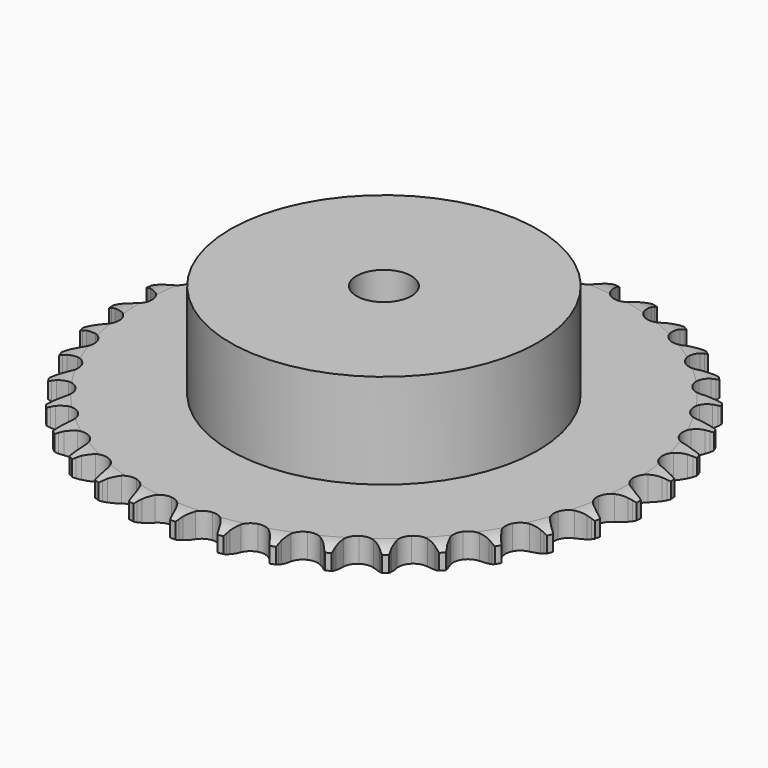
from build123d import *

# Parameters (mm, degrees)
PAD_DEPTH         = 7.2
SKETCH001_R       = 45
PAD001_DEPTH      = 35
SKETCH002_R       = 8
POCKET_DEPTH      = 0.001
POCKET_DEPTH_BACK = 35.001


with BuildPart() as part:
    # Sprocket → Pad (new body)
    with BuildSketch(Plane.XY):
        with BuildLine():
            ThreePointArc((-6.673059, 78.402771), (-5.93416, 77.380789), (-5.393637, 76.241379))
            Line((-5.393637, 76.241379), (-4.978563, 75.109289))
            ThreePointArc((-4.978563, 75.109289), (-4.321728, 73.651627), (-3.462685, 72.3032))
            ThreePointArc((-3.462685, 72.3032), (-1.937803, 71.022139), (0, 70.562469))
            ThreePointArc((0, 70.562469), (1.937803, 71.022139), (3.462685, 72.3032))
            ThreePointArc((3.462685, 72.3032), (4.321728, 73.651627), (4.978563, 75.109289))
            Line((4.978563, 75.109289), (5.393637, 76.241379))
            ThreePointArc((5.393637, 76.241379), (5.93416, 77.380789), (6.673059, 78.402771))
            ThreePointArc((6.673059, 78.402771), (7.228614, 77.270614), (7.568801, 76.056245))
            Line((7.568801, 76.056245), (7.78658, 74.870292))
            ThreePointArc((7.78658, 74.870292), (8.187622, 73.322591), (8.806423, 71.848381))
            ThreePointArc((8.806423, 71.848381), (10.09287, 70.328041), (11.925115, 69.547492))
            ThreePointArc((11.925115, 69.547492), (13.91273, 69.67306), (15.632177, 70.677987))
            Line((15.632177, 70.677987), (17.600483, 73.187529))
            ThreePointArc((17.600483, 73.187529), (17.886516, 73.718501), (18.20091, 74.233187))
            ThreePointArc((18.20091, 74.233187), (18.926219, 75.264859), (19.827206, 76.147266))
            ThreePointArc((19.827206, 76.147266), (20.183434, 74.937505), (20.313499, 73.683112))
            Line((20.313499, 73.683112), (20.327718, 72.477412))
            ThreePointArc((20.327718, 72.477412), (20.461428, 70.884198), (20.822186, 69.326614))
            ThreePointArc((20.822186, 69.326614), (21.83319, 67.610733), (23.507167, 66.531761))
            ThreePointArc((23.507167, 66.531761), (25.487412, 66.319614), (27.35196, 67.019498))
            Line((27.35196, 67.019498), (29.716068, 69.160297))
            ThreePointArc((29.716068, 69.160297), (30.087722, 69.635291), (30.484576, 70.089442))
            ThreePointArc((30.484576, 70.089442), (31.373806, 70.983696), (32.41096, 71.701143))
            ThreePointArc((32.41096, 71.701143), (32.557614, 70.448581), (32.473814, 69.190249))
            Line((32.473814, 69.190249), (32.284064, 67.99949))
            ThreePointArc((32.284064, 67.99949), (32.146597, 66.406595), (32.238932, 64.810448))
            ThreePointArc((32.238932, 64.810448), (32.945409, 62.948387), (34.412959, 61.602032))
            ThreePointArc((34.412959, 61.602032), (36.328868, 61.058273), (38.284878, 61.43298))
            Line((38.284878, 61.43298), (40.976777, 63.143449))
            ThreePointArc((40.976777, 63.143449), (41.423359, 63.548801), (41.891256, 63.929351))
            ThreePointArc((41.891256, 63.929351), (42.918825, 64.660461), (44.06231, 65.192308))
            ThreePointArc((44.06231, 65.192308), (43.99517, 63.932978), (43.699917, 62.706909))
            Line((43.699917, 62.706909), (43.311657, 61.565345))
            ThreePointArc((43.311657, 61.565345), (42.906966, 60.018595), (42.728223, 58.429802))
            ThreePointArc((42.728223, 58.429802), (43.109848, 56.475131), (44.328754, 54.900124))
            ThreePointArc((44.328754, 54.900124), (46.125209, 54.040397), (48.116408, 54.079147))
            Line((48.116408, 54.079147), (51.058658, 55.310079))
            ThreePointArc((51.058658, 55.310079), (51.567321, 55.634128), (52.092801, 55.930128))
            ThreePointArc((52.092801, 55.930128), (53.229148, 56.477062), (54.446067, 56.80801))
            ThreePointArc((54.446067, 56.80801), (54.167066, 55.578141), (53.668852, 54.419606))
            Line((53.668852, 54.419606), (53.093252, 53.360078))
            ThreePointArc((53.093252, 53.360078), (52.43298, 51.90397), (51.988301, 50.368238))
            ThreePointArc((51.988301, 50.368238), (52.034095, 48.377188), (52.969291, 46.61884))
            ThreePointArc((52.969291, 46.61884), (54.594611, 45.467877), (56.563718, 45.169555))
            Line((56.563718, 45.169555), (59.671674, 45.885539))
            ThreePointArc((59.671674, 45.885539), (60.227785, 46.118962), (60.795731, 46.321898))
            ThreePointArc((60.795731, 46.321898), (62.008165, 46.668922), (63.263511, 46.789448))
            ThreePointArc((63.263511, 46.789448), (62.780673, 45.624421), (62.093833, 44.566749))
            Line((62.093833, 44.566749), (61.347451, 43.619739))
            ThreePointArc((61.347451, 43.619739), (60.450593, 42.296162), (59.75277, 40.857671))
            ThreePointArc((59.75277, 40.857671), (59.461417, 38.887521), (60.085999, 36.996417))
            ThreePointArc((60.085999, 36.996417), (61.493426, 35.587329), (63.383792, 34.960517))
            Line((63.383792, 34.960517), (66.568045, 35.140956))
            ThreePointArc((66.568045, 35.140956), (67.155606, 35.277038), (67.749679, 35.381071))
            ThreePointArc((67.749679, 35.381071), (69.00332, 35.518201), (70.260978, 35.42484))
            ThreePointArc((70.260978, 35.42484), (69.588195, 34.35817), (68.732487, 33.431788))
            Line((68.732487, 33.431788), (67.836796, 32.624539))
            ThreePointArc((67.836796, 32.624539), (66.729152, 31.47157), (65.798261, 30.171703))
            ThreePointArc((65.798261, 30.171703), (65.178141, 28.279131), (65.474141, 26.309674))
            ThreePointArc((65.474141, 26.309674), (66.623186, 24.682998), (68.38043, 23.745729))
            Line((68.38043, 23.745729), (71.549375, 23.385431))
            ThreePointArc((71.549375, 23.385431), (72.151482, 23.420257), (72.754591, 23.422396))
            ThreePointArc((72.754591, 23.422396), (74.013375, 23.345686), (75.237164, 23.041123))
            ThreePointArc((75.237164, 23.041123), (74.393791, 22.103497), (73.393832, 21.335056))
            Line((73.393832, 21.335056), (72.374599, 20.690791))
            ThreePointArc((72.374599, 20.690791), (71.088036, 19.741599), (69.950856, 18.617751))
            ThreePointArc((69.950856, 18.617751), (69.019809, 16.857202), (68.978712, 14.86605))
            ThreePointArc((68.978712, 14.86605), (69.836319, 13.068583), (71.409888, 11.84782))
            Line((71.409888, 11.84782), (74.472359, 10.95715))
            ThreePointArc((74.472359, 10.95715), (75.071691, 10.889719), (75.666487, 10.7899))
            ThreePointArc((75.666487, 10.7899), (76.8942, 10.501559), (78.048915, 9.994555))
            ThreePointArc((78.048915, 9.994555), (77.059213, 9.212947), (75.943771, 8.624553))
            Line((75.943771, 8.624553), (74.830317, 8.161806))
            ThreePointArc((74.830317, 8.161806), (73.401845, 7.443697), (72.091092, 6.528199))
            ThreePointArc((72.091092, 6.528199), (70.875903, 4.950322), (70.49889, 2.994756))
            ThreePointArc((70.49889, 2.994756), (71.040389, 1.078208), (72.385013, -0.39093))
            Line((72.385013, -0.39093), (75.252909, -1.786349))
            ThreePointArc((75.252909, -1.786349), (75.832225, -1.954097), (76.401595, -2.153001))
            ThreePointArc((76.401595, -2.153001), (77.562919, -2.644679), (78.61534, -3.339539))
            ThreePointArc((78.61534, -3.339539), (77.507782, -3.942643), (76.308945, -4.334063))
            Line((76.308945, -4.334063), (75.133303, -4.601979))
            ThreePointArc((75.133303, -4.601979), (73.604017, -5.068346), (72.157398, -5.749156))
            ThreePointArc((72.157398, -5.749156), (70.693027, -7.098969), (69.990944, -8.962691))
            ThreePointArc((69.990944, -8.962691), (70.200755, -10.943185), (71.277753, -12.618433))
            Line((71.277753, -12.618433), (73.86857, -14.478457))
            ThreePointArc((73.86857, -14.478457), (74.411203, -14.741698), (74.938769, -15.033964))
            ThreePointArc((74.938769, -15.033964), (76.000294, -15.714835), (76.920145, -16.577559))
            ThreePointArc((76.920145, -16.577559), (75.726593, -16.984811), (74.47885, -17.167996))
            Line((74.47885, -17.167996), (73.27484, -17.233374))
            ThreePointArc((73.27484, -17.233374), (71.688736, -17.434581), (70.147867, -17.861119))
            ThreePointArc((70.147867, -17.861119), (68.47644, -18.944037), (67.469486, -20.662298))
            ThreePointArc((67.469486, -20.662298), (67.341574, -22.649763), (68.119961, -24.482927))
            Line((68.119961, -24.482927), (70.359167, -26.754047))
            ThreePointArc((70.359167, -26.754047), (70.849507, -27.105206), (71.320091, -27.482428))
            ThreePointArc((71.320091, -27.482428), (72.251279, -28.332903), (73.012098, -29.338674))
            ThreePointArc((73.012098, -29.338674), (71.766888, -29.538356), (70.506134, -29.508037))
            Line((70.506134, -29.508037), (69.308394, -29.368995))
            ThreePointArc((69.308394, -29.368995), (67.7111, -29.299256), (66.12031, -29.459251))
            ThreePointArc((66.12031, -29.459251), (64.289911, -30.244118), (63.007053, -31.767488))
            ThreePointArc((63.007053, -31.767488), (62.545098, -33.704748), (63.002483, -35.643092))
            Line((63.002483, -35.643092), (64.825659, -38.259971))
            ThreePointArc((64.825659, -38.259971), (65.249599, -38.688947), (65.649663, -39.140272))
            ThreePointArc((65.649663, -39.140272), (66.423726, -40.135886), (67.003625, -41.255768))
            ThreePointArc((67.003625, -41.255768), (65.742581, -41.242137), (64.505085, -40.999185))
            Line((64.505085, -40.999185), (63.348072, -40.659725))
            ThreePointArc((63.348072, -40.659725), (61.78554, -40.321044), (60.190592, -40.209893))
            ThreePointArc((60.190592, -40.209893), (58.253878, -40.674132), (56.732023, -41.958785))
            ThreePointArc((56.732023, -41.958785), (55.949314, -43.790109), (56.072538, -45.77787))
            Line((56.072538, -45.77787), (57.427234, -48.665226))
            ThreePointArc((57.427234, -48.665226), (57.772579, -49.159678), (58.090615, -49.672122))
            ThreePointArc((58.090615, -49.672122), (58.685284, -50.784232), (59.067581, -51.986009))
            ThreePointArc((59.067581, -51.986009), (57.826978, -51.759456), (56.648343, -51.310861))
            Line((56.648343, -51.310861), (55.565341, -50.780747))
            ThreePointArc((55.565341, -50.780747), (54.082521, -50.18287), (52.529301, -49.80377))
            ThreePointArc((52.529301, -49.80377), (50.541988, -49.934025), (48.824915, -50.943005))
            ThreePointArc((48.824915, -50.943005), (47.74397, -52.615708), (47.529488, -54.595702))
            Line((47.529488, -54.595702), (48.376732, -57.67047))
            ThreePointArc((48.376732, -57.67047), (48.633547, -58.216174), (48.860405, -58.774995))
            ThreePointArc((48.860405, -58.774995), (49.258572, -59.971608), (49.432269, -61.220707))
            ThreePointArc((49.432269, -61.220707), (48.2478, -60.78775), (47.16193, -60.146418))
            Line((47.16193, -60.146418), (46.184096, -59.440901))
            ThreePointArc((46.184096, -59.440901), (44.823647, -58.601025), (43.356836, -57.964882))
            ThreePointArc((43.356836, -57.964882), (41.376096, -57.757407), (39.513204, -58.461687))
            ThreePointArc((39.513204, -58.461687), (38.165119, -59.927649), (37.619101, -61.842915))
            Line((37.619101, -61.842915), (37.93452, -65.016641))
            ThreePointArc((37.93452, -65.016641), (38.095417, -65.597896), (38.22457, -66.187019))
            ThreePointArc((38.22457, -66.187019), (38.414782, -67.43371), (38.374881, -68.694197))
            ThreePointArc((38.374881, -68.694197), (37.280619, -68.067291), (36.318755, -67.251671))
            Line((36.318755, -67.251671), (35.474219, -66.391048))
            ThreePointArc((35.474219, -66.391048), (34.275279, -65.333336), (32.937075, -64.458451))
            ThreePointArc((32.937075, -64.458451), (31.01989, -63.919213), (29.064769, -64.298532))
            ThreePointArc((29.064769, -64.298532), (27.488326, -65.51558), (26.626481, -67.31102))
            Line((26.626481, -67.31102), (26.401001, -70.492401))
            ThreePointArc((26.401001, -70.492401), (26.461351, -71.092487), (26.489084, -71.694962))
            ThreePointArc((26.489084, -71.694962), (26.465868, -72.955867), (26.213518, -74.19148))
            ThreePointArc((26.213518, -74.19148), (25.240943, -73.388661), (24.430755, -72.422216))
            Line((24.430755, -72.422216), (23.743813, -71.431245))
            ThreePointArc((23.743813, -71.431245), (22.740873, -70.186126), (21.569774, -69.097668))
            ThreePointArc((21.569774, -69.097668), (19.771297, -68.24218), (17.780194, -68.285626))
            ThreePointArc((17.780194, -68.285626), (16.020745, -69.218748), (14.867866, -70.842709))
            Line((14.867866, -70.842709), (14.107973, -73.940222))
            ThreePointArc((14.107973, -73.940222), (14.06604, -74.541876), (13.991555, -75.140373))
            ThreePointArc((13.991555, -75.140373), (13.755579, -76.379217), (13.298039, -77.554409))
            ThreePointArc((13.298039, -77.554409), (12.475131, -76.598772), (11.839927, -75.509306))
            Line((11.839927, -75.509306), (11.330341, -74.416495))
            ThreePointArc((11.330341, -74.416495), (10.552253, -73.019788), (9.58195, -71.74907))
            ThreePointArc((9.58195, -71.74907), (7.953921, -70.601944), (5.984115, -70.308267))
            ThreePointArc((5.984115, -70.308267), (4.092276, -70.930619), (2.681529, -72.336383))
            Line((2.681529, -72.336383), (1.409085, -75.260919))
            ThreePointArc((1.409085, -75.260919), (1.266074, -75.846831), (1.091514, -76.424131))
            ThreePointArc((1.091514, -76.424131), (0.649567, -77.605276), (0, -78.686239))
            ThreePointArc((0, -78.686239), (-0.649567, -77.605276), (-1.091514, -76.424131))
            Line((-1.091514, -76.424131), (-1.409085, -75.260919))
            ThreePointArc((-1.409085, -75.260919), (-1.939936, -73.752804), (-2.681529, -72.336383))
            ThreePointArc((-2.681529, -72.336383), (-4.092276, -70.930619), (-5.984115, -70.308267))
            ThreePointArc((-5.984115, -70.308267), (-7.953921, -70.601944), (-9.58195, -71.74907))
            Line((-9.58195, -71.74907), (-11.330341, -74.416495))
            ThreePointArc((-11.330341, -74.416495), (-11.570314, -74.969811), (-11.839927, -75.509306))
            ThreePointArc((-11.839927, -75.509306), (-12.475131, -76.598772), (-13.298039, -77.554409))
            ThreePointArc((-13.298039, -77.554409), (-13.755579, -76.379217), (-13.991555, -75.140373))
            Line((-13.991555, -75.140373), (-14.107973, -73.940222))
            ThreePointArc((-14.107973, -73.940222), (-14.376316, -72.364087), (-14.867866, -70.842709))
            ThreePointArc((-14.867866, -70.842709), (-16.020745, -69.218748), (-17.780194, -68.285626))
            ThreePointArc((-17.780194, -68.285626), (-19.771297, -68.24218), (-21.569774, -69.097668))
            Line((-21.569774, -69.097668), (-23.743813, -71.431245))
            ThreePointArc((-23.743813, -71.431245), (-24.073845, -71.936046), (-24.430755, -72.422216))
            ThreePointArc((-24.430755, -72.422216), (-25.240943, -73.388661), (-26.213518, -74.19148))
            ThreePointArc((-26.213518, -74.19148), (-26.465868, -72.955867), (-26.489084, -71.694962))
            Line((-26.489084, -71.694962), (-26.401001, -70.492401))
            ThreePointArc((-26.401001, -70.492401), (-26.399116, -68.893586), (-26.626481, -67.31102))
            ThreePointArc((-26.626481, -67.31102), (-27.488326, -65.51558), (-29.064769, -64.298532))
            ThreePointArc((-29.064769, -64.298532), (-31.01989, -63.919213), (-32.937075, -64.458451))
            Line((-32.937075, -64.458451), (-35.474219, -66.391048))
            ThreePointArc((-35.474219, -66.391048), (-35.884816, -66.832812), (-36.318755, -67.251671))
            ThreePointArc((-36.318755, -67.251671), (-37.280619, -68.067291), (-38.374881, -68.694197))
            ThreePointArc((-38.374881, -68.694197), (-38.414782, -67.43371), (-38.22457, -66.187019))
            Line((-38.22457, -66.187019), (-37.93452, -65.016641))
            ThreePointArc((-37.93452, -65.016641), (-37.662461, -63.441142), (-37.619101, -61.842915))
            ThreePointArc((-37.619101, -61.842915), (-38.165119, -59.927649), (-39.513204, -58.461687))
            ThreePointArc((-39.513204, -58.461687), (-41.376096, -57.757407), (-43.356836, -57.964882))
            Line((-43.356836, -57.964882), (-46.184096, -59.440901))
            ThreePointArc((-46.184096, -59.440901), (-46.663445, -59.80692), (-47.16193, -60.146418))
            ThreePointArc((-47.16193, -60.146418), (-48.2478, -60.78775), (-49.432269, -61.220707))
            ThreePointArc((-49.432269, -61.220707), (-49.258572, -59.971608), (-48.860405, -58.774995))
            Line((-48.860405, -58.774995), (-48.376732, -57.67047))
            ThreePointArc((-48.376732, -57.67047), (-47.842326, -56.163612), (-47.529488, -54.595702))
            ThreePointArc((-47.529488, -54.595702), (-47.74397, -52.615708), (-48.824915, -50.943005))
            ThreePointArc((-48.824915, -50.943005), (-50.541988, -49.934025), (-52.529301, -49.80377))
            Line((-52.529301, -49.80377), (-55.565341, -50.780747))
            ThreePointArc((-55.565341, -50.780747), (-56.099653, -51.060491), (-56.648343, -51.310861))
            ThreePointArc((-56.648343, -51.310861), (-57.826978, -51.759456), (-59.067581, -51.986009))
            ThreePointArc((-59.067581, -51.986009), (-58.685284, -50.784232), (-58.090615, -49.672122))
            Line((-58.090615, -49.672122), (-57.427234, -48.665226))
            ThreePointArc((-57.427234, -48.665226), (-56.645854, -47.270358), (-56.072538, -45.77787))
            ThreePointArc((-56.072538, -45.77787), (-55.949314, -43.790109), (-56.732023, -41.958785))
            ThreePointArc((-56.732023, -41.958785), (-58.253878, -40.674132), (-60.190592, -40.209893))
            Line((-60.190592, -40.209893), (-63.348072, -40.659725))
            ThreePointArc((-63.348072, -40.659725), (-63.921975, -40.845145), (-64.505085, -40.999185))
            ThreePointArc((-64.505085, -40.999185), (-65.742581, -41.242137), (-67.003625, -41.255768))
            ThreePointArc((-67.003625, -41.255768), (-66.423726, -40.135886), (-65.649663, -39.140272))
            Line((-65.649663, -39.140272), (-64.825659, -38.259971))
            ThreePointArc((-64.825659, -38.259971), (-63.819784, -37.017221), (-63.002483, -35.643092))
            ThreePointArc((-63.002483, -35.643092), (-62.545098, -33.704748), (-63.007053, -31.767488))
            ThreePointArc((-63.007053, -31.767488), (-64.289911, -30.244118), (-66.12031, -29.459251))
            Line((-66.12031, -29.459251), (-69.308394, -29.368995))
            ThreePointArc((-69.308394, -29.368995), (-69.905379, -29.454759), (-70.506134, -29.508037))
            ThreePointArc((-70.506134, -29.508037), (-71.766888, -29.538356), (-73.012098, -29.338674))
            ThreePointArc((-73.012098, -29.338674), (-72.251279, -28.332903), (-71.320091, -27.482428))
            Line((-71.320091, -27.482428), (-70.359167, -26.754047))
            ThreePointArc((-70.359167, -26.754047), (-69.157736, -25.699166), (-68.119961, -24.482927))
            ThreePointArc((-68.119961, -24.482927), (-67.341574, -22.649763), (-67.469486, -20.662298))
            ThreePointArc((-67.469486, -20.662298), (-68.47644, -18.944037), (-70.147867, -17.861119))
            Line((-70.147867, -17.861119), (-73.27484, -17.233374))
            ThreePointArc((-73.27484, -17.233374), (-73.877732, -17.217013), (-74.47885, -17.167996))
            ThreePointArc((-74.47885, -17.167996), (-75.726593, -16.984811), (-76.920145, -16.577559))
            ThreePointArc((-76.920145, -16.577559), (-76.000294, -15.714835), (-74.938769, -15.033964))
            Line((-74.938769, -15.033964), (-73.86857, -14.478457))
            ThreePointArc((-73.86857, -14.478457), (-72.506145, -13.641793), (-71.277753, -12.618433))
            ThreePointArc((-71.277753, -12.618433), (-70.200755, -10.943185), (-69.990944, -8.962691))
            ThreePointArc((-69.990944, -8.962691), (-70.693027, -7.098969), (-72.157398, -5.749156))
            Line((-72.157398, -5.749156), (-75.133303, -4.601979))
            ThreePointArc((-75.133303, -4.601979), (-75.724757, -4.483964), (-76.308945, -4.334063))
            ThreePointArc((-76.308945, -4.334063), (-77.507782, -3.942643), (-78.61534, -3.339539))
            ThreePointArc((-78.61534, -3.339539), (-77.562919, -2.644679), (-76.401595, -2.153001))
            Line((-76.401595, -2.153001), (-75.252909, -1.786349))
            ThreePointArc((-75.252909, -1.786349), (-73.768684, -1.19197), (-72.385013, -0.39093))
            ThreePointArc((-72.385013, -0.39093), (-71.040389, 1.078208), (-70.49889, 2.994756))
            ThreePointArc((-70.49889, 2.994756), (-70.875903, 4.950322), (-72.091092, 6.528199))
            Line((-72.091092, 6.528199), (-74.830317, 8.161806))
            ThreePointArc((-74.830317, 8.161806), (-75.393319, 8.37808), (-75.943771, 8.624553))
            ThreePointArc((-75.943771, 8.624553), (-77.059213, 9.212947), (-78.048915, 9.994555))
            ThreePointArc((-78.048915, 9.994555), (-76.8942, 10.501559), (-75.666487, 10.7899))
            Line((-75.666487, 10.7899), (-74.472359, 10.95715))
            ThreePointArc((-74.472359, 10.95715), (-72.909032, 11.292143), (-71.409888, 11.84782))
            ThreePointArc((-71.409888, 11.84782), (-69.836319, 13.068583), (-68.978712, 14.86605))
            ThreePointArc((-68.978712, 14.86605), (-69.019809, 16.857202), (-69.950856, 18.617751))
            Line((-69.950856, 18.617751), (-72.374599, 20.690791))
            ThreePointArc((-72.374599, 20.690791), (-72.892953, 20.999101), (-73.393832, 21.335056))
            ThreePointArc((-73.393832, 21.335056), (-74.393791, 22.103497), (-75.237164, 23.041123))
            ThreePointArc((-75.237164, 23.041123), (-74.013375, 23.345686), (-72.754591, 23.422396))
            Line((-72.754591, 23.422396), (-71.549375, 23.385431))
            ThreePointArc((-71.549375, 23.385431), (-69.951921, 23.451403), (-68.38043, 23.745729))
            ThreePointArc((-68.38043, 23.745729), (-66.623186, 24.682998), (-65.474141, 26.309674))
            ThreePointArc((-65.474141, 26.309674), (-65.178141, 28.279131), (-65.798261, 30.171703))
            Line((-65.798261, 30.171703), (-67.836796, 32.624539))
            ThreePointArc((-67.836796, 32.624539), (-68.295588, 33.016017), (-68.732487, 33.431788))
            ThreePointArc((-68.732487, 33.431788), (-69.588195, 34.35817), (-70.260978, 35.42484))
            ThreePointArc((-70.260978, 35.42484), (-69.00332, 35.518201), (-67.749679, 35.381071))
            Line((-67.749679, 35.381071), (-66.568045, 35.140956))
            ThreePointArc((-66.568045, 35.140956), (-64.98242, 34.936007), (-63.383792, 34.960517))
            ThreePointArc((-63.383792, 34.960517), (-61.493426, 35.587329), (-60.085999, 36.996417))
            ThreePointArc((-60.085999, 36.996417), (-59.461417, 38.887521), (-59.75277, 40.857671))
            Line((-59.75277, 40.857671), (-61.347451, 43.619739))
            ThreePointArc((-61.347451, 43.619739), (-61.733485, 44.083122), (-62.093833, 44.566749))
            ThreePointArc((-62.093833, 44.566749), (-62.780673, 45.624421), (-63.263511, 46.789448))
            ThreePointArc((-63.263511, 46.789448), (-62.008165, 46.668922), (-60.795731, 46.321898))
            Line((-60.795731, 46.321898), (-59.671674, 45.885539))
            ThreePointArc((-59.671674, 45.885539), (-58.143493, 45.415567), (-56.563718, 45.169555))
            ThreePointArc((-56.563718, 45.169555), (-54.594611, 45.467877), (-52.969291, 46.61884))
            ThreePointArc((-52.969291, 46.61884), (-52.034095, 48.377188), (-51.988301, 50.368238))
            Line((-51.988301, 50.368238), (-53.093252, 53.360078))
            ThreePointArc((-53.093252, 53.360078), (-53.395421, 53.882036), (-53.668852, 54.419606))
            ThreePointArc((-53.668852, 54.419606), (-54.167066, 55.578141), (-54.446067, 56.80801))
            ThreePointArc((-54.446067, 56.80801), (-53.229148, 56.477062), (-52.092801, 55.930128))
            Line((-52.092801, 55.930128), (-51.058658, 55.310079))
            ThreePointArc((-51.058658, 55.310079), (-49.631884, 54.588604), (-48.116408, 54.079147))
            ThreePointArc((-48.116408, 54.079147), (-46.125209, 54.040397), (-44.328754, 54.900124))
            ThreePointArc((-44.328754, 54.900124), (-43.109848, 56.475131), (-42.728223, 58.429802))
            Line((-42.728223, 58.429802), (-43.311657, 61.565345))
            ThreePointArc((-43.311657, 61.565345), (-43.521268, 62.130862), (-43.699917, 62.706909))
            ThreePointArc((-43.699917, 62.706909), (-43.99517, 63.932978), (-44.06231, 65.192308))
            ThreePointArc((-44.06231, 65.192308), (-42.918825, 64.660461), (-41.891256, 63.929351))
            Line((-41.891256, 63.929351), (-40.976777, 63.143449))
            ThreePointArc((-40.976777, 63.143449), (-39.692455, 62.191225), (-38.284878, 61.43298))
            ThreePointArc((-38.284878, 61.43298), (-36.328868, 61.058273), (-34.412959, 61.602032))
            ThreePointArc((-34.412959, 61.602032), (-32.945409, 62.948387), (-32.238932, 64.810448))
            Line((-32.238932, 64.810448), (-32.284064, 67.99949))
            ThreePointArc((-32.284064, 67.99949), (-32.395087, 68.592296), (-32.473814, 69.190249))
            ThreePointArc((-32.473814, 69.190249), (-32.557614, 70.448581), (-32.41096, 71.701143))
            ThreePointArc((-32.41096, 71.701143), (-31.373806, 70.983696), (-30.484576, 70.089442))
            Line((-30.484576, 70.089442), (-29.716068, 69.160297))
            ThreePointArc((-29.716068, 69.160297), (-28.611148, 68.004719), (-27.35196, 67.019498))
            ThreePointArc((-27.35196, 67.019498), (-25.487412, 66.319614), (-23.507167, 66.531761))
            ThreePointArc((-23.507167, 66.531761), (-21.83319, 67.610733), (-20.822186, 69.326614))
            Line((-20.822186, 69.326614), (-20.327718, 72.477412))
            ThreePointArc((-20.327718, 72.477412), (-20.336959, 73.080455), (-20.313499, 73.683112))
            ThreePointArc((-20.313499, 73.683112), (-20.183434, 74.937505), (-19.827206, 76.147266))
            ThreePointArc((-19.827206, 76.147266), (-18.926219, 75.264859), (-18.20091, 74.233187))
            Line((-18.20091, 74.233187), (-17.600483, 73.187529))
            ThreePointArc((-17.600483, 73.187529), (-16.706749, 71.86184), (-15.632177, 70.677987))
            ThreePointArc((-15.632177, 70.677987), (-13.91273, 69.67306), (-11.925115, 69.547492))
            ThreePointArc((-11.925115, 69.547492), (-10.09287, 70.328041), (-8.806423, 71.848381))
            Line((-8.806423, 71.848381), (-7.78658, 74.870292))
            ThreePointArc((-7.78658, 74.870292), (-7.693774, 75.466222), (-7.568801, 76.056245))
            ThreePointArc((-7.568801, 76.056245), (-7.228614, 77.270614), (-6.673059, 78.402771))
        make_face()
    extrude(amount=PAD_DEPTH)

    # Sketch → Groove (revolve, cut)
    with BuildSketch(Plane.XZ):
        with BuildLine():
            Line((71.633431, 0), (77.3, 0))
            Line((82.966569, 0), (77.3, 0))
            Line((82.966569, 7.2), (82.966569, 0))
            Line((77.3, 7.2), (82.966569, 7.2))
            Line((71.633431, 7.2), (77.3, 7.2))
            ThreePointArc((77.3, 5.9), (74.54032, 6.870833), (71.633431, 7.2))
            Line((77.3, 1.3), (77.3, 5.9))
            ThreePointArc((71.633431, 0), (74.54032, 0.329167), (77.3, 1.3))
        make_face()
    revolve(axis=Axis((0, 0, 0), (0, 0, 1)), mode=Mode.SUBTRACT)

    # Sketch001 → Pad001 (join)
    with BuildSketch(Plane.XY):
        Circle(SKETCH001_R)
    extrude(amount=PAD001_DEPTH)

    # Sketch002 → Pocket (cut, two sides)
    with BuildSketch(Plane.XY) as pocket_sk:
        Circle(SKETCH002_R)
    extrude(amount=-POCKET_DEPTH, mode=Mode.SUBTRACT)
    extrude(pocket_sk.sketch, amount=POCKET_DEPTH_BACK, mode=Mode.SUBTRACT)


solid = part.part
